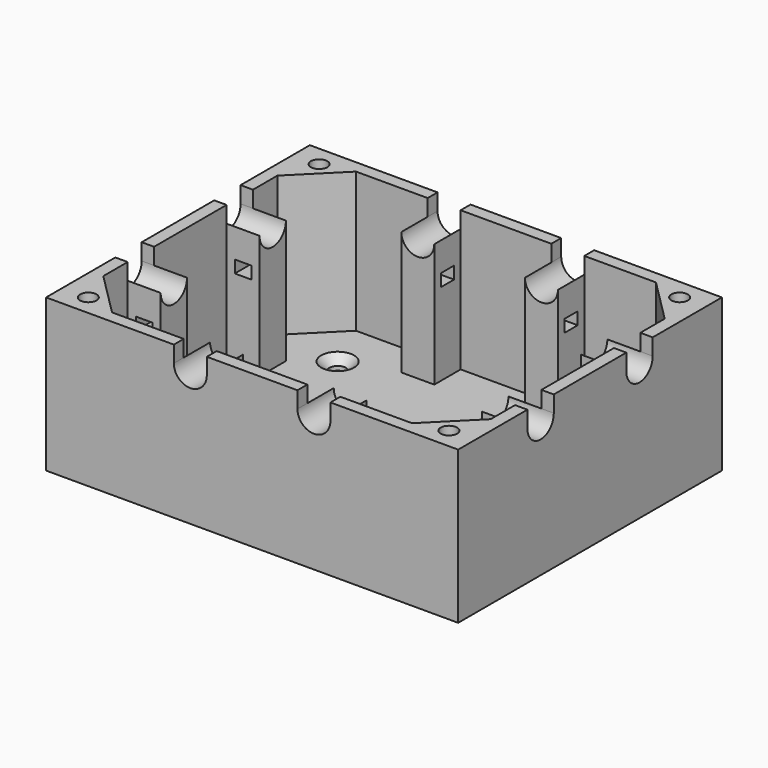
from build123d import *

# Parameters (mm, degrees)
SKETCH_W        = 100
SKETCH_H        = 80
SKETCH_R        = 2
PAD_DEPTH       = 34
SKETCH001_W     = 100
SKETCH001_H     = 80
SKETCH001_R     = 2
PAD001_DEPTH    = 3
CHAMFER_SIZE    = 2
CHAMFER001_SIZE = 2
CHAMFER002_SIZE = 2
CHAMFER003_SIZE = 2
SKETCH004_W     = 8
SKETCH004_H     = 11
SKETCH004_W_2   = 11
SKETCH004_H_2   = 8
PAD002_DEPTH    = 30
POCKET_DEPTH    = 80.001
POCKET001_DEPTH = 100.001
SKETCH005_W     = 4
SKETCH005_H     = 3
POCKET002_DEPTH = 46
SKETCH006_W     = 4
SKETCH006_H     = 3
POCKET003_DEPTH = 45


with BuildPart() as part:
    # Sketch → Pad (new body)
    with BuildSketch(Plane.XY):
        Rectangle(SKETCH_W, SKETCH_H)
        with Locations((-43.75305, -35.00244)):
            Circle(SKETCH_R, mode=Mode.SUBTRACT)
        with Locations((43.75305, 35.00244)):
            Circle(SKETCH_R, mode=Mode.SUBTRACT)
        with Locations((-43.75305, 35.00244)):
            Circle(SKETCH_R, mode=Mode.SUBTRACT)
        with Locations((43.75305, -35.00244)):
            Circle(SKETCH_R, mode=Mode.SUBTRACT)
        Polygon((-47, -26.393398), (-47, 26.393398), (-36.393398, 37), (36.393398, 37), (47, 26.393398), (47, -26.393398), (36.393398, -37), (-36.393398, -37), align=None, mode=Mode.SUBTRACT)
    extrude(amount=PAD_DEPTH)

    # Sketch001 (on Face17 of Pad) → Pad001 (join)
    with BuildSketch(Plane(origin=(0, 0, 0), x_dir=(1, 0, 0), z_dir=(0, 0, -1))):
        Rectangle(SKETCH001_W, SKETCH001_H)
        with Locations((-31.234752, -24.987802)):
            Circle(SKETCH001_R, mode=Mode.SUBTRACT)
        with Locations((31.234752, 24.987802)):
            Circle(SKETCH001_R, mode=Mode.SUBTRACT)
        with Locations((-31.234752, 24.987802)):
            Circle(SKETCH001_R, mode=Mode.SUBTRACT)
        with Locations((31.234752, -24.987802)):
            Circle(SKETCH001_R, mode=Mode.SUBTRACT)
        Polygon((-39.711598, -35.00244), (-41.732324, -31.50244), (-45.773775, -31.50244), (-47.794501, -35.00244), (-45.773775, -38.50244), (-41.732324, -38.50244), align=None, mode=Mode.SUBTRACT)
        Polygon((47.794501, 35.00244), (45.773775, 38.50244), (41.732324, 38.50244), (39.711598, 35.00244), (41.732324, 31.50244), (45.773775, 31.50244), align=None, mode=Mode.SUBTRACT)
        Polygon((-39.711598, 35.00244), (-41.732324, 38.50244), (-45.773775, 38.50244), (-47.794501, 35.00244), (-45.773775, 31.50244), (-41.732324, 31.50244), align=None, mode=Mode.SUBTRACT)
        Polygon((47.794501, -35.00244), (45.773775, -31.50244), (41.732324, -31.50244), (39.711598, -35.00244), (41.732324, -38.50244), (45.773775, -38.50244), align=None, mode=Mode.SUBTRACT)
    extrude(amount=PAD001_DEPTH)

    # Chamfer
    chamfer_edges = [part.edges().sort_by_distance(p)[0] for p in [
        (-33.234752, -24.987802, 0),
    ]]
    chamfer(chamfer_edges, length=CHAMFER_SIZE)

    # Chamfer001
    chamfer001_edges = [part.edges().sort_by_distance(p)[0] for p in [
        (-33.234752, 24.987802, 0),
    ]]
    chamfer(chamfer001_edges, length=CHAMFER001_SIZE)

    # Chamfer002
    chamfer002_edges = [part.edges().sort_by_distance(p)[0] for p in [
        (29.234752, 24.987802, 0),
    ]]
    chamfer(chamfer002_edges, length=CHAMFER002_SIZE)

    # Chamfer003
    chamfer003_edges = [part.edges().sort_by_distance(p)[0] for p in [
        (29.234752, -24.987802, 0),
    ]]
    chamfer(chamfer003_edges, length=CHAMFER003_SIZE)

    # Sketch004 (on Face1 of Chamfer003) → Pad002 (join)
    with BuildSketch(Plane.XY):
        with Locations((-15, -34.5)):
            Rectangle(SKETCH004_W, SKETCH004_H)
        with Locations((15, 34.5)):
            Rectangle(SKETCH004_W, SKETCH004_H)
        with Locations((15, -34.5)):
            Rectangle(SKETCH004_W, SKETCH004_H)
        with Locations((-15, 34.5)):
            Rectangle(SKETCH004_W, SKETCH004_H)
        with Locations((-44.5, 15)):
            Rectangle(SKETCH004_W_2, SKETCH004_H_2)
        with Locations((44.5, 15)):
            Rectangle(SKETCH004_W_2, SKETCH004_H_2)
        with Locations((44.5, -15)):
            Rectangle(SKETCH004_W_2, SKETCH004_H_2)
        with Locations((-44.5, -15)):
            Rectangle(SKETCH004_W_2, SKETCH004_H_2)
    extrude(amount=PAD002_DEPTH)

    # Sketch002 (on Face85 of Pad002) → Pocket (cut, through all)
    with BuildSketch(Plane.XZ.offset(40)):
        with BuildLine():
            Line((-19, 34), (-19, 30))
            ThreePointArc((-19, 30), (-15, 26), (-11, 30))
            Line((-11, 34), (-11, 30))
            Line((-11, 34), (-19, 34))
        make_face()
        with BuildLine():
            Line((19, 34), (19, 30))
            ThreePointArc((11, 30), (15, 26), (19, 30))
            Line((11, 34), (11, 30))
            Line((11, 34), (19, 34))
        make_face()
    extrude(amount=-POCKET_DEPTH, mode=Mode.SUBTRACT)

    # Sketch003 (on Face108 of Pocket) → Pocket001 (cut, through all)
    with BuildSketch(Plane(origin=(-50, 0, 0), x_dir=(0, -1, 0), z_dir=(-1, 0, 0))):
        with BuildLine():
            Line((-19, 34), (-19, 30))
            ThreePointArc((-19, 30), (-15, 26), (-11, 30))
            Line((-11, 34), (-11, 30))
            Line((-11, 34), (-19, 34))
        make_face()
        with BuildLine():
            Line((19, 34), (19, 30))
            ThreePointArc((11, 30), (15, 26), (19, 30))
            Line((11, 34), (11, 30))
            Line((11, 34), (19, 34))
        make_face()
    extrude(amount=-POCKET001_DEPTH, mode=Mode.SUBTRACT)

    # Sketch005 (on Face24 of Pocket001) → Pocket002 (cut)
    with BuildSketch(Plane.XZ.offset(19)):
        with Locations((-43, 21.5)):
            Rectangle(SKETCH005_W, SKETCH005_H)
        with Locations((43, 21.5)):
            Rectangle(SKETCH005_W, SKETCH005_H)
    extrude(amount=-POCKET002_DEPTH, mode=Mode.SUBTRACT)

    # Sketch006 (on Face12 of Pocket002) → Pocket003 (cut)
    with BuildSketch(Plane(origin=(-19, 0, 0), x_dir=(0, -1, 0), z_dir=(-1, 0, 0))):
        with Locations((-33, 21.5)):
            Rectangle(SKETCH006_W, SKETCH006_H)
        with Locations((33, 21.5)):
            Rectangle(SKETCH006_W, SKETCH006_H)
    extrude(amount=-POCKET003_DEPTH, mode=Mode.SUBTRACT)


solid = part.part
